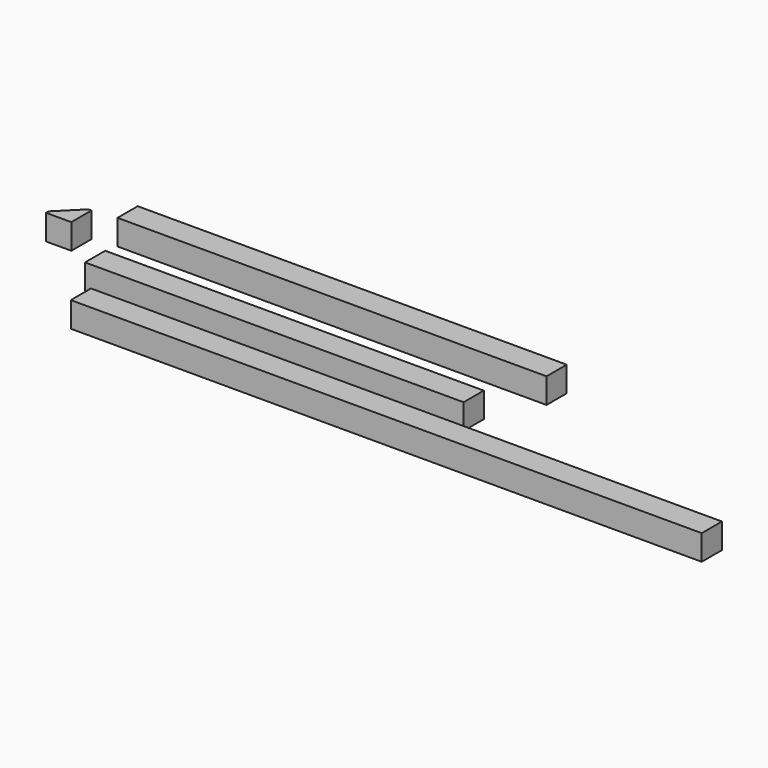
from build123d import *

# Parameters (mm, degrees)
F0_W     = 600
F0_H     = 40
F1_DEPTH = 40
F2_W     = 1000
F2_H     = 40
F3_DEPTH = 40
F5_DEPTH = 40
F6_W     = 680
F6_H     = 40
F7_DEPTH = 40


with BuildPart() as f1:
    # F0 (on Top) → F1 (new body)
    with BuildSketch(Plane.XY):
        with Locations((84.080714, 13.660387)):
            Rectangle(F0_W, F0_H)
    extrude(amount=F1_DEPTH)


with BuildPart() as f3:
    # F2 (on Top) → F3 (new body)
    with BuildSketch(Plane.XY):
        with Locations((333.469917, -76.240545)):
            Rectangle(F2_W, F2_H)
    extrude(amount=F3_DEPTH)


with BuildPart() as f5:
    # F4 (on Top) → F5 (new body)
    with BuildSketch(Plane.XY):
        Polygon((-296.585902, 107.303303), (-336.585902, 67.303303), (-296.585902, 67.303303), align=None)
        Polygon((-336.585902, 72.303303), (-336.585902, 67.303303), (-296.585902, 107.303303), (-301.585902, 107.303303), align=None)
    extrude(amount=F5_DEPTH)


with BuildPart() as f7:
    # F6 (on Top) → F7 (new body)
    with BuildSketch(Plane.XY):
        with Locations((80.881054, 132.032394)):
            Rectangle(F6_W, F6_H)
    extrude(amount=F7_DEPTH)


solid = Compound([f1.part, f3.part, f5.part, f7.part])
